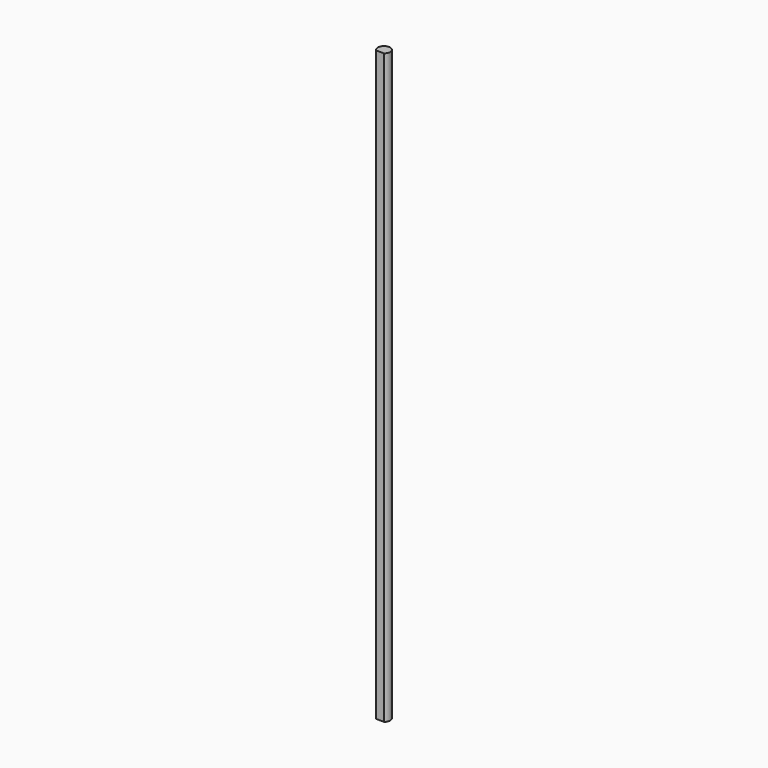
from build123d import *

# Parameters (mm, degrees)
PAD_DEPTH = 190


with BuildPart() as part:
    # Sketch → Pad (new body)
    with BuildSketch(Plane.XY.offset(5)):
        with BuildLine():
            ThreePointArc((1.27698, -1.53926), (0, 2), (-1.27698, -1.53926))
            Line((-1.27698, -1.53926), (1.27698, -1.53926))
        make_face()
    extrude(amount=PAD_DEPTH)


solid = part.part
